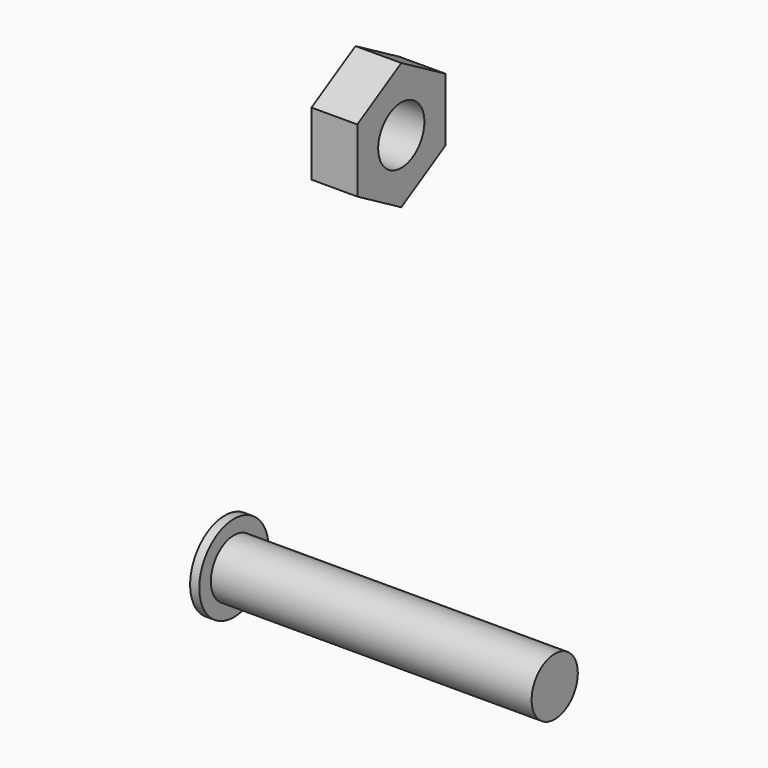
from build123d import *

# Parameters (mm, degrees)
F0_R     = 4
F1_DEPTH = 45.72
F0_R_2   = 6
F2_DEPTH = 1.27
F3_R     = 4
F4_DEPTH = 6.35


with BuildPart() as f1:
    # F0 (on Right) → F1 (new body)
    with BuildSketch(Plane.YZ):
        Circle(F0_R)
    extrude(amount=F1_DEPTH)

    # F0 (on Right) → F2 (join)
    with BuildSketch(Plane.YZ):
        Circle(F0_R_2)
        Circle(F0_R, mode=Mode.SUBTRACT)
    extrude(amount=F2_DEPTH)


with BuildPart() as f4:
    # F3 (on Right) → F4 (new body)
    with BuildSketch(Plane.YZ):
        Polygon((30.256976, 40.85782), (30.256976, 49.656638), (22.636976, 54.056047), (15.016976, 49.656638), (15.016976, 40.85782), (22.636976, 36.458411), align=None)
        with Locations((22.636976, 45.257229)):
            Circle(F3_R, mode=Mode.SUBTRACT)
    extrude(amount=F4_DEPTH)


solid = Compound([f1.part, f4.part])
